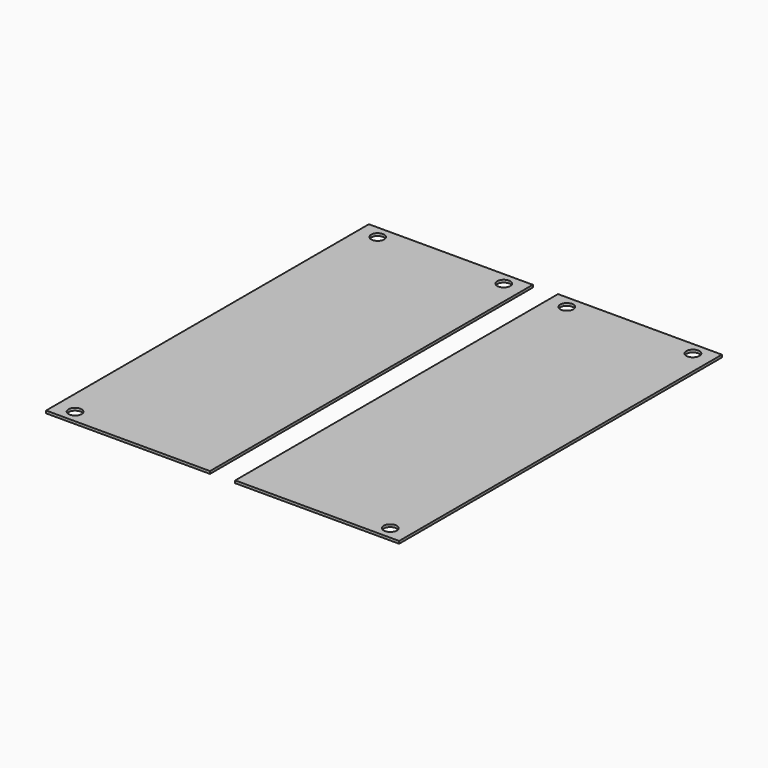
from build123d import *

# Parameters (mm, degrees)
F0_W     = 65
F0_H     = 160
F0_R     = 2.6
F1_DEPTH = 1


with BuildPart() as f1:
    # F0 (on Top) → F1 (new body)
    with BuildSketch(Plane.XY):
        with Locations((37.5, 80)):
            Rectangle(F0_W, F0_H)
        with Locations((62.5, 5)):
            Circle(F0_R, mode=Mode.SUBTRACT)
        with Locations((12.5, 155)):
            Circle(F0_R, mode=Mode.SUBTRACT)
        with Locations((62.5, 155)):
            Circle(F0_R, mode=Mode.SUBTRACT)
        with Locations((-37.5, 80)):
            Rectangle(F0_W, F0_H)
        with Locations((-62.5, 5)):
            Circle(F0_R, mode=Mode.SUBTRACT)
        with Locations((-62.5, 155)):
            Circle(F0_R, mode=Mode.SUBTRACT)
        with Locations((-12.5, 155)):
            Circle(F0_R, mode=Mode.SUBTRACT)
    extrude(amount=F1_DEPTH)


solid = f1.part
